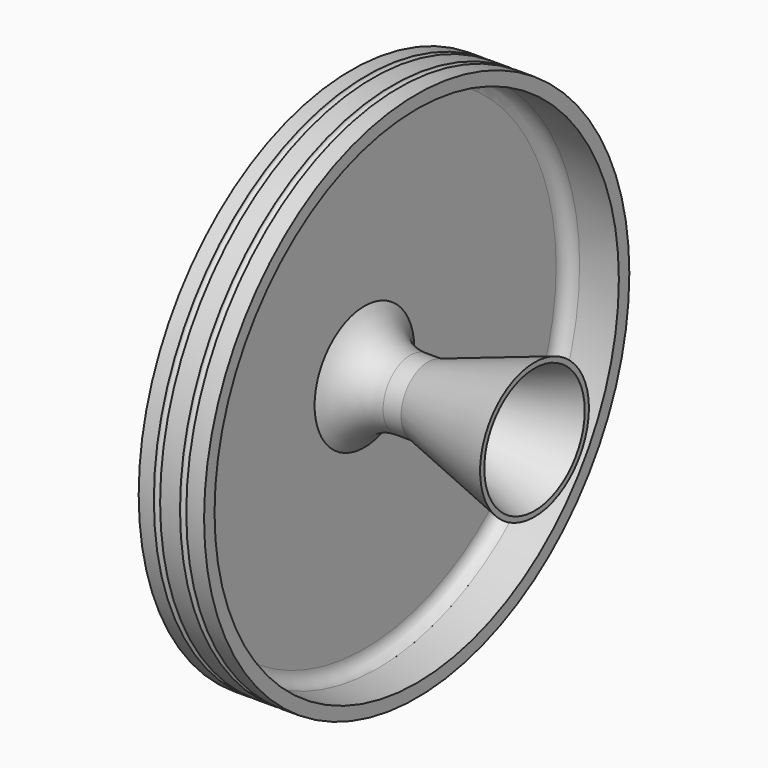
from build123d import *

# Parameters (mm, degrees)
SKETCH_R = 1.2


with BuildPart() as part:
    # Sketch001 → Revolution (revolve)
    with BuildSketch(Plane.XY):
        with BuildLine():
            Line((47.486178, 24), (6.840403, 9.206148))
            ThreePointArc((0, 8), (3.472964, 8.303845), (6.840403, 9.206148))
            ThreePointArc((-22.552623, 23.791517), (-13.765834, 12.340351), (0, 8))
            Line((-22.552623, 23.791517), (-22.552623, 101.6))
            Line((-22.552623, 101.6), (2.447377, 101.6))
            Line((2.447377, 101.6), (2.447377, 96.6))
            Line((2.447377, 96.6), (-12.552623, 96.6))
            ThreePointArc((-12.552623, 96.6), (-16.088157, 95.135534), (-17.552623, 91.6))
            Line((-17.552623, 23.791517), (-17.552623, 91.6))
            ThreePointArc((-17.552623, 23.791517), (-10.302323, 15.91367), (0, 13))
            Line((6.840403, 13), (0, 13))
            Line((47.486178, 26), (6.840403, 13))
            Line((47.486178, 24), (47.486178, 26))
        make_face()
    revolve(axis=Axis((0, 0, 0), (1, 0, 0)))

    # Sketch → Groove (revolve, cut)
    with BuildSketch(Plane.XY):
        with Locations((-15.552623, 101.6)):
            Circle(SKETCH_R)
        with Locations((-5.552623, 101.6)):
            Circle(SKETCH_R)
    revolve(axis=Axis((0, 0, 0), (1, 0, 0)), mode=Mode.SUBTRACT)


solid = part.part
